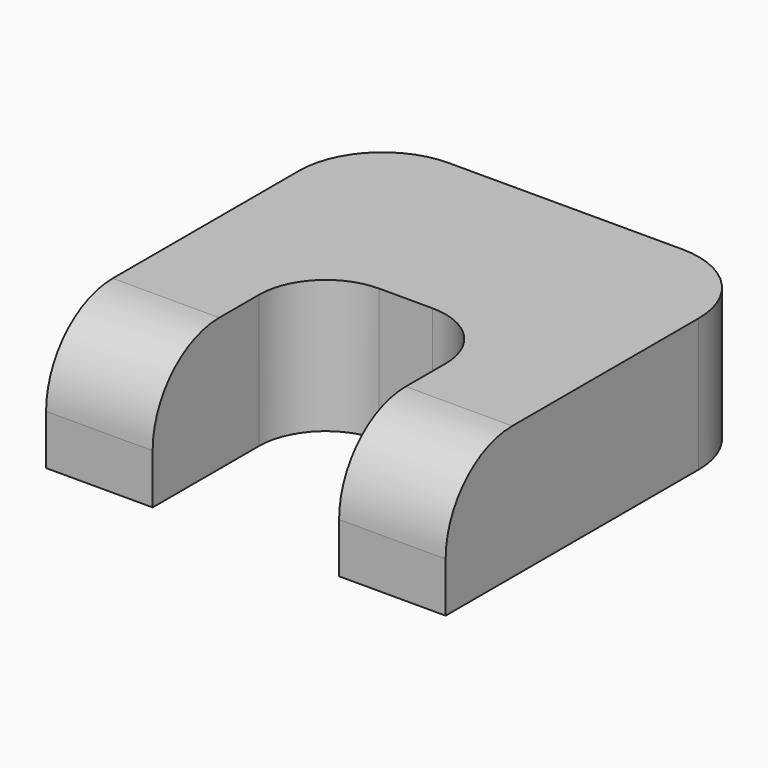
from build123d import *

# Parameters (mm, degrees)
F0_W     = 40.64
F0_H     = 76.2
F1_DEPTH = 50.8
F2_R     = 31.75
F3_R     = 31.75
F4_R     = 25.4


with BuildPart() as f1:
    # F0 (on Top) → F1 (new body)
    with BuildSketch(Plane.XY):
        Polygon((0, 76.2), (0, 0), (40.64, 0), (111.76, 0), (152.4, 0), (152.4, 76.2), align=None)
        with Locations((20.32, -38.1)):
            Rectangle(F0_W, F0_H)
        with Locations((132.08, -38.1)):
            Rectangle(F0_W, F0_H)
    extrude(amount=F1_DEPTH)

    # F2
    f2_edges = [f1.edges().sort_by_distance(p)[0] for p in [
        (20.32, -76.2, 50.8),
        (132.08, -76.2, 50.8),
    ]]
    fillet(f2_edges, radius=F2_R)

    # F3
    f3_edges = [f1.edges().sort_by_distance(p)[0] for p in [
        (152.4, 76.2, 25.4),
        (0, 76.2, 25.4),
    ]]
    fillet(f3_edges, radius=F3_R)

    # F4
    f4_edges = [f1.edges().sort_by_distance(p)[0] for p in [
        (111.76, 0, 25.4),
        (40.64, 0, 25.4),
    ]]
    fillet(f4_edges, radius=F4_R)


solid = f1.part
